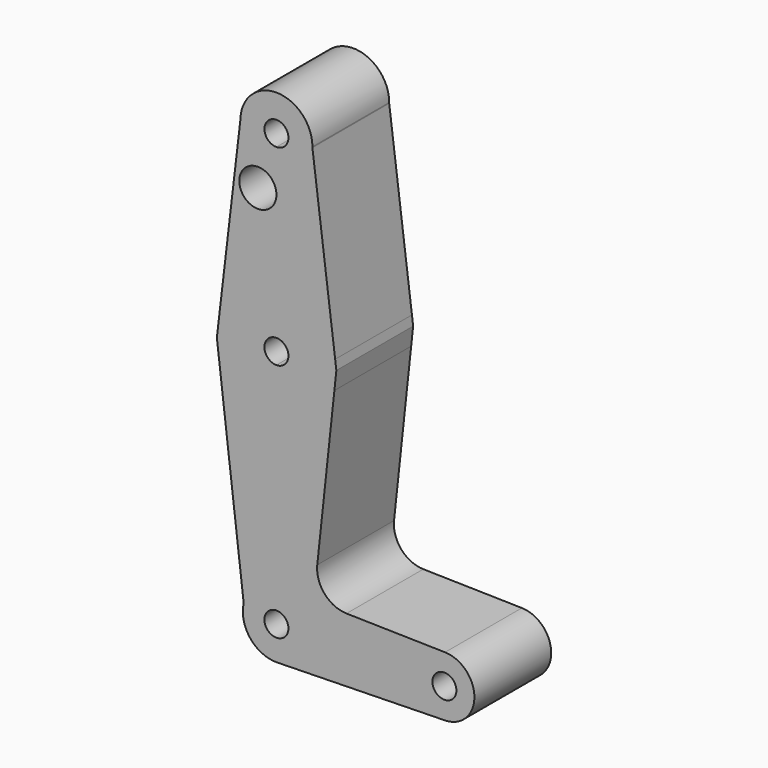
from build123d import *

# Parameters (mm, degrees)
F0_R     = 4.910687916
F1_DEPTH = 25.4


with BuildPart() as f1:
    # F0 (on Front) → F1 (new body)
    with BuildSketch(Plane.XZ):
        with BuildLine():
            Line((0, 100.0252), (0, 79.375))
            ThreePointArc((0, 79.375), (10.012380623, 75.8194098585), (15.5397317232, 66.7453602219))
            Line((15.5397317232, 66.7453602219), (9.5220982838, 114.0649058205))
            ThreePointArc((9.5220982838, 114.0649058205), (6.6515544401, 107.4821962092), (0, 104.775))
            Line((0, 104.775), (0, 100.0252))
        make_face()
        with BuildLine():
            Line((-9.523228136, 114.483714097), (-14.8927532543, 68.9974108003))
            ThreePointArc((-14.8927532543, 68.9974108003), (-9.0759084544, 76.5247268965), (0, 79.375))
            Line((0, 79.375), (0, 100.0252))
            Line((0, 100.0252), (0, 104.775))
            ThreePointArc((0, 104.775), (-6.799834622, 107.6300769035), (-9.523228136, 114.483714097))
        make_face()
        with Locations((-4.910687916, 100.0252)):
            Circle(F0_R, mode=Mode.SUBTRACT)
        with BuildLine():
            ThreePointArc((9.525, 114.3), (0.0918613207, 123.8245570237), (-9.523228136, 114.483714097))
            ThreePointArc((-9.523228136, 114.483714097), (-6.799834622, 107.6300769035), (0, 104.775))
            ThreePointArc((0, 104.775), (6.6515544401, 107.4821962092), (9.5220982838, 114.0649058205))
            ThreePointArc((9.5220982838, 114.0649058205), (9.5242745433, 114.1824439568), (9.525, 114.3))
        make_face()
        with BuildLine():
            ThreePointArc((3.175, 114.3), (2.2450640303, 112.0549359697), (0, 111.125))
            ThreePointArc((0, 111.125), (-2.2450640303, 116.5450640303), (3.175, 114.3))
        make_face(mode=Mode.SUBTRACT)
        with BuildLine():
            Line((0, 47.625), (0, 8.89))
            ThreePointArc((0, 8.89), (6.2861792847, 6.2861792847), (8.89, 0))
            Line((8.89, 0), (36.5125, 0))
            ThreePointArc((36.5125, 0), (38.8976714985, 5.6723499946), (44.6197263211, 7.9356851768))
            Line((44.6197263211, 7.9356851768), (18.5374126861, 8.4935267545))
            ThreePointArc((18.5374126861, 8.4935267545), (12.7361166784, 11.193163529), (10.8028769592, 17.2928076391))
            Line((10.8028769592, 17.2928076391), (15.3350279263, 59.3948150467))
            ThreePointArc((15.3350279263, 59.3948150467), (9.6655525933, 50.9066399215), (0, 47.625))
        make_face()
        with BuildLine():
            ThreePointArc((-8.6596350135, 2.0106768596), (-5.5297912582, 6.9608554532), (0, 8.89))
            Line((0, 8.89), (0, 47.625))
            ThreePointArc((0, 47.625), (-10.5402536567, 51.629082687), (-15.763461999, 61.6214657823))
            Line((-15.763461999, 61.6214657823), (-8.6596350135, 2.0106768596))
        make_face()
        with BuildLine():
            Line((36.5125, 0), (8.89, 0))
            ThreePointArc((8.89, 0), (6.4191584066, -6.1503256296), (0.3801000336, -8.8818705217))
            Line((0.3801000336, -8.8818705217), (44.6197263211, -7.9356851768))
            ThreePointArc((44.6197263211, -7.9356851768), (38.8976714985, -5.6723499946), (36.5125, 0))
        make_face()
        with BuildLine():
            ThreePointArc((44.6197263211, 7.9356851768), (38.8976714985, 5.6723499946), (36.5125, 0))
            ThreePointArc((36.5125, 0), (38.8976714985, -5.6723499946), (44.6197263211, -7.9356851768))
            ThreePointArc((44.6197263211, -7.9356851768), (50.1223499946, -5.5523285015), (52.3875, 0))
            ThreePointArc((52.3875, 0), (50.1223499946, 5.5523285015), (44.6197263211, 7.9356851768))
        make_face()
        with BuildLine():
            ThreePointArc((47.625, 0), (44.45, -3.175), (41.275, 0))
            ThreePointArc((41.275, 0), (44.45, 3.175), (47.625, 0))
        make_face(mode=Mode.SUBTRACT)
        with BuildLine():
            Line((0, 8.89), (0, 3.175))
            ThreePointArc((0, 3.175), (2.2450640303, 2.2450640303), (3.175, 0))
            Line((3.175, 0), (8.89, 0))
            ThreePointArc((8.89, 0), (6.2861792847, 6.2861792847), (0, 8.89))
        make_face()
        with BuildLine():
            ThreePointArc((3.175, 0), (-2.2450640303, -2.2450640303), (0, 3.175))
            Line((0, 3.175), (0, 8.89))
            ThreePointArc((0, 8.89), (-5.5297912582, 6.9608554532), (-8.6596350135, 2.0106768596))
            ThreePointArc((-8.6596350135, 2.0106768596), (-6.9608554532, -5.5297912582), (0, -8.89))
            Line((0, -8.89), (0.3801000336, -8.8818705217))
            ThreePointArc((0.3801000336, -8.8818705217), (6.4191584066, -6.1503256296), (8.89, 0))
            Line((8.89, 0), (3.175, 0))
        make_face()
        with BuildLine():
            ThreePointArc((-15.763461999, 61.6214657823), (-10.5402536567, 51.629082687), (0, 47.625))
            Line((0, 47.625), (0, 60.325))
            ThreePointArc((0, 60.325), (-3.175, 63.5), (0, 66.675))
            Line((0, 66.675), (0, 79.375))
            ThreePointArc((0, 79.375), (-9.0759084544, 76.5247268965), (-14.8927532543, 68.9974108003))
            Line((-14.8927532543, 68.9974108003), (-15.763461999, 61.6214657823))
        make_face()
        with BuildLine():
            Line((0, 60.325), (0, 47.625))
            ThreePointArc((0, 47.625), (9.6655525933, 50.9066399215), (15.3350279263, 59.3948150467))
            Line((15.3350279263, 59.3948150467), (15.8573955257, 64.2474169793))
            Line((15.8573955257, 64.2474169793), (15.5397317232, 66.7453602219))
            ThreePointArc((15.5397317232, 66.7453602219), (10.012380623, 75.8194098585), (0, 79.375))
            Line((0, 79.375), (0, 66.675))
            ThreePointArc((0, 66.675), (2.2450640303, 65.7450640303), (3.175, 63.5))
            ThreePointArc((3.175, 63.5), (2.2450640303, 61.2549359697), (0, 60.325))
        make_face()
    extrude(amount=F1_DEPTH)


solid = f1.part
